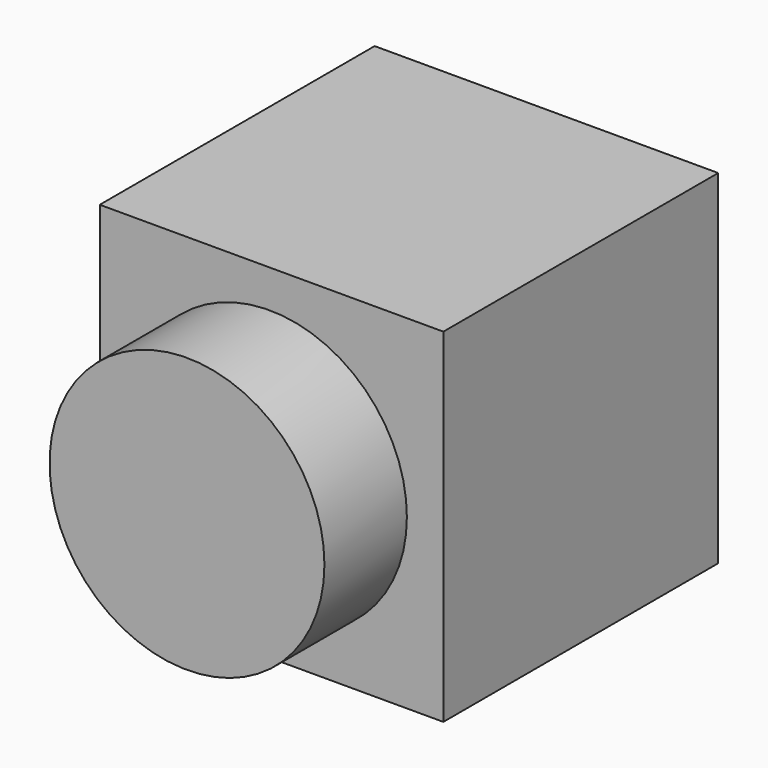
from build123d import *

# Parameters (mm, degrees)
F0_W     = 254
F0_H     = 254
F1_DEPTH = 254
F2_R     = 101.6
F3_DEPTH = 76.2
F4_R     = 101.6
F5_DEPTH = 76.2


with BuildPart() as f1:
    # F0 (on Right) → F1 (new body)
    with BuildSketch(Plane.YZ):
        with Locations((-32.027512, 2.427369)):
            Rectangle(F0_W, F0_H)
    extrude(amount=-F1_DEPTH)

    # F2 (on face) → F3 (join)
    with BuildSketch(Plane.XZ.offset(159.027512)):
        with Locations((-128.556848, 0)):
            Circle(F2_R)
    extrude(amount=F3_DEPTH)

    # F4 (on face) → F5 (cut)
    with BuildSketch(Plane(origin=(0, 94.972488, 0), x_dir=(-1, 0, 0), z_dir=(0, 1, 0))):
        with Locations((126.83927, 0)):
            Circle(F4_R)
    extrude(amount=-F5_DEPTH, mode=Mode.SUBTRACT)


solid = f1.part
